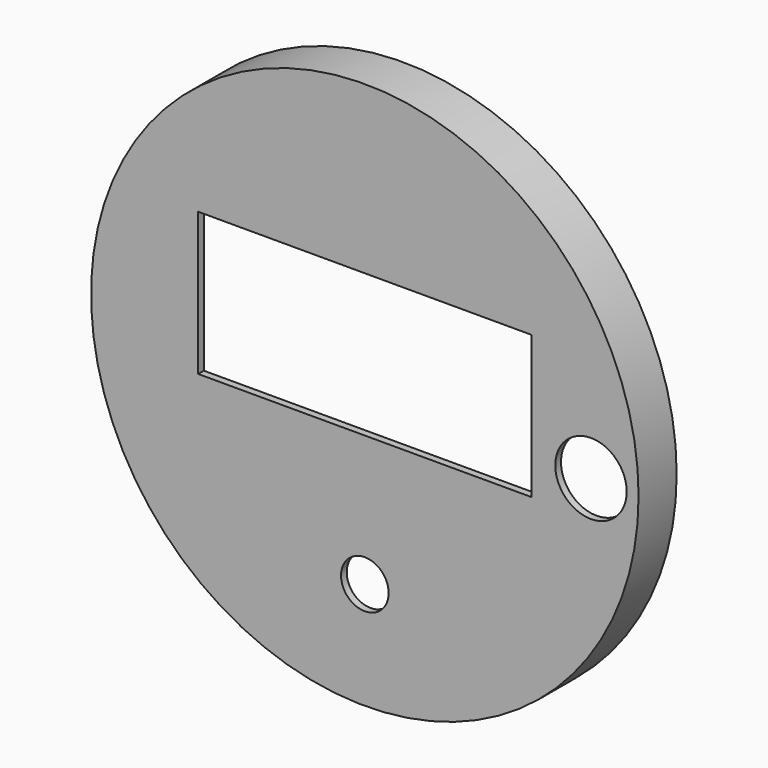
from build123d import *

# Parameters (mm, degrees)
F0_R     = 11.5
F2_DEPTH = 2
F3_T     = -0.3
F1_W     = 14
F1_H     = 6
F1_R     = 1
F1_R_2   = 1.5
F4_DEPTH = 2.001


with BuildPart() as f2:
    # F0 (on Front) → F2 (new body)
    with BuildSketch(Plane.XZ):
        Circle(F0_R)
    extrude(amount=-F2_DEPTH)

    # F3
    f3_openings = [f2.faces().sort_by_distance(p)[0] for p in [
        (0, 2, 0),
    ]]
    offset(amount=F3_T, openings=f3_openings)

    # F1 (on Front) → F4 (cut, through all)
    with BuildSketch(Plane.XZ):
        with Locations((0, 1.5)):
            Rectangle(F1_W, F1_H)
        with Locations((0, -7)):
            Circle(F1_R)
        with Locations((9.5, 0)):
            Circle(F1_R_2)
    extrude(amount=-F4_DEPTH, mode=Mode.SUBTRACT)


solid = f2.part
